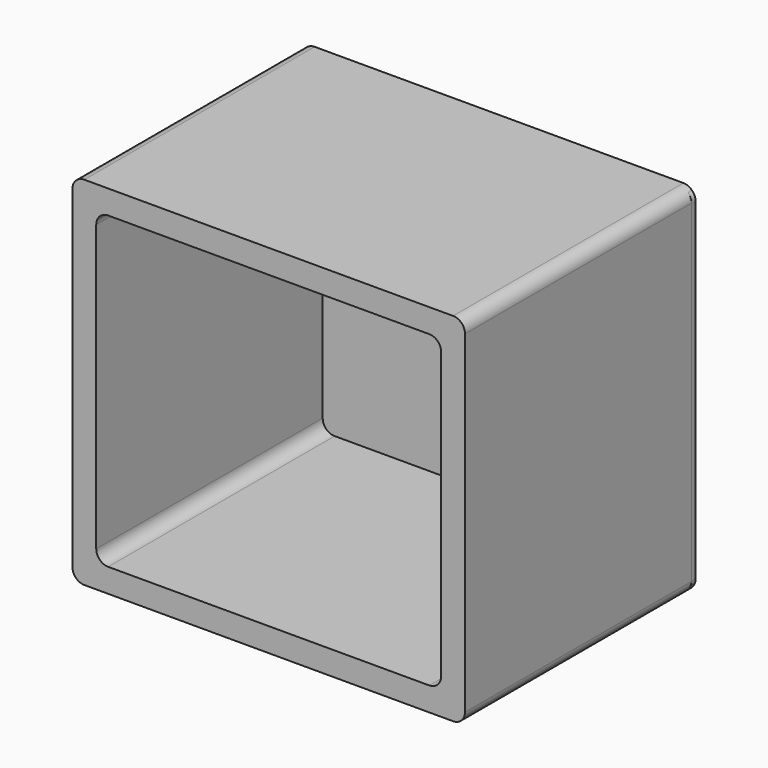
from build123d import *

# Parameters (mm, degrees)
F1_DEPTH = 121
F3_DEPTH = 2


with BuildPart() as f1:
    # F0 (on Front) → F1 (new body)
    with BuildSketch(Plane.XZ):
        with BuildLine():
            Line((77.5, 75), (-77.5, 75))
            ThreePointArc((-77.5, 75), (-81.035534, 73.535534), (-82.5, 70))
            Line((-82.5, 70), (-82.5, -70))
            ThreePointArc((-82.5, -70), (-81.035534, -73.535534), (-77.5, -75))
            Line((-77.5, -75), (77.5, -75))
            ThreePointArc((77.5, -75), (81.035534, -73.535534), (82.5, -70))
            Line((82.5, -70), (82.5, 70))
            ThreePointArc((82.5, 70), (81.035534, 73.535534), (77.5, 75))
        make_face()
        with BuildLine():
            ThreePointArc((-72.5, 60), (-71.035534, 63.535534), (-67.5, 65))
            Line((-67.5, 65), (67.5, 65))
            ThreePointArc((67.5, 65), (71.035534, 63.535534), (72.5, 60))
            Line((72.5, 60), (72.5, -60))
            ThreePointArc((72.5, -60), (71.035534, -63.535534), (67.5, -65))
            Line((67.5, -65), (-67.5, -65))
            ThreePointArc((-67.5, -65), (-71.035534, -63.535534), (-72.5, -60))
            Line((-72.5, -60), (-72.5, 60))
        make_face(mode=Mode.SUBTRACT)
    extrude(amount=F1_DEPTH)

    # F2 (on Front) → F3 (join)
    with BuildSketch(Plane.XZ):
        with BuildLine():
            Line((77.622953, 74.877053), (-77.622953, 74.877053))
            ThreePointArc((-77.622953, 74.877053), (-81.158487, 73.412587), (-82.622953, 69.877053))
            Line((-82.622953, 69.877053), (-82.622953, -69.877053))
            ThreePointArc((-82.622953, -69.877053), (-81.158487, -73.412587), (-77.622953, -74.877053))
            Line((-77.622953, -74.877053), (77.622953, -74.877053))
            ThreePointArc((77.622953, -74.877053), (81.158487, -73.412587), (82.622953, -69.877053))
            Line((82.622953, -69.877053), (82.622953, 69.877053))
            ThreePointArc((82.622953, 69.877053), (81.158487, 73.412587), (77.622953, 74.877053))
        make_face()
    extrude(amount=F3_DEPTH)


solid = f1.part
